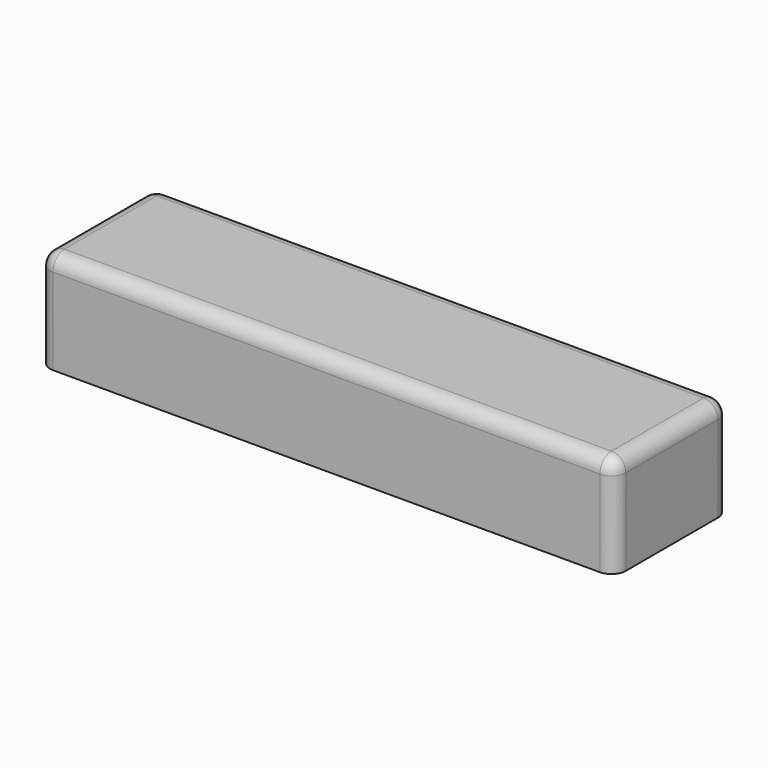
from build123d import *

# Parameters (mm, degrees)
F0_W     = 200
F0_H     = 50
F1_DEPTH = 35
F2_R     = 5
F3_T     = -2.5


with BuildPart() as f1:
    # F0 (on Top) → F1 (new body)
    with BuildSketch(Plane.XY):
        with Locations((-100, 25)):
            Rectangle(F0_W, F0_H)
    extrude(amount=F1_DEPTH)

    # F2
    f2_edges = [f1.edges().sort_by_distance(p)[0] for p in [
        (0, 0, 17.5),
        (0, 25, 35),
        (0, 50, 17.5),
        (-100, 50, 35),
        (-100, 0, 35),
        (-200, 0, 17.5),
        (-200, 25, 35),
        (-200, 50, 17.5),
    ]]
    fillet(f2_edges, radius=F2_R)

    # F3
    f3_openings = [f1.faces().sort_by_distance(p)[0] for p in [
        (-100, 25, 0),
    ]]
    offset(amount=F3_T, openings=f3_openings)


solid = f1.part
